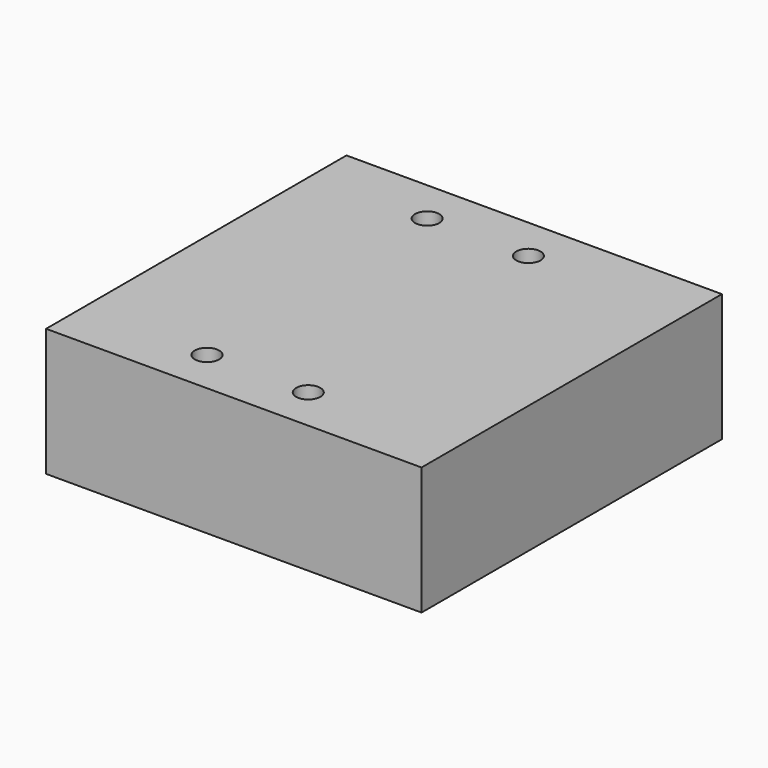
from build123d import *

# Parameters (mm, degrees)
F0_W     = 77.3
F0_H     = 77.3
F1_DEPTH = 26.3
F2_R     = 2.5
F3_DEPTH = 66.5


with BuildPart() as f1:
    # F0 (on Top) → F1 (new body)
    with BuildSketch(Plane.XY):
        with Locations((0, 19.751287)):
            Rectangle(F0_W, F0_H)
    extrude(amount=F1_DEPTH)

    # F2 (on Top) → F3 (cut)
    with BuildSketch(Plane.XY):
        with Locations((-12.761941, -9.848713)):
            Circle(F2_R)
        with Locations((8.088059, -9.848713)):
            Circle(F2_R)
        with Locations((6.053726, 49.351287)):
            Circle(F2_R)
        with Locations((-14.796274, 49.351287)):
            Circle(F2_R)
    extrude(amount=F3_DEPTH, mode=Mode.SUBTRACT)


solid = f1.part
